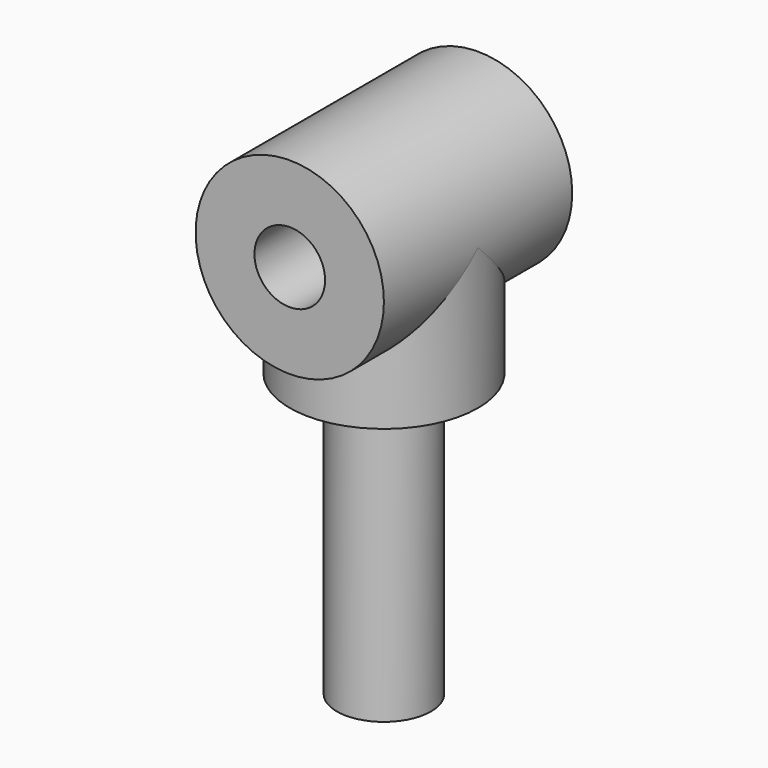
from build123d import *

# Parameters (mm, degrees)
SKETCH001_R       = 4
PAD_DEPTH         = 5
SKETCH002_R       = 1.5
POCKET_DEPTH      = 5.001
POCKET_DEPTH_BACK = -5.001


with BuildPart() as part:
    # Sketch (on DatumPlane) → Revolution (revolve)
    with BuildSketch(Plane.XZ):
        Polygon((0, 0), (2, 0), (2, 12), (4, 12), (4, 18), (0, 18), align=None)
    revolve(axis=Axis((0, 0, 0), (0, 0, 1)))

    # Sketch001 (on DatumPlane) → Pad (new body, symmetric)
    with BuildSketch(Plane.XZ):
        with Locations((0, 18)):
            Circle(SKETCH001_R)
    extrude(amount=PAD_DEPTH, both=True)

    # Sketch002 (on DatumPlane) → Pocket (cut, two sides)
    with BuildSketch(Plane.XZ) as pocket_sk:
        with Locations((0, 18)):
            Circle(SKETCH002_R)
    extrude(amount=-POCKET_DEPTH, mode=Mode.SUBTRACT)
    extrude(pocket_sk.sketch, amount=-POCKET_DEPTH_BACK, mode=Mode.SUBTRACT)


solid = part.part
